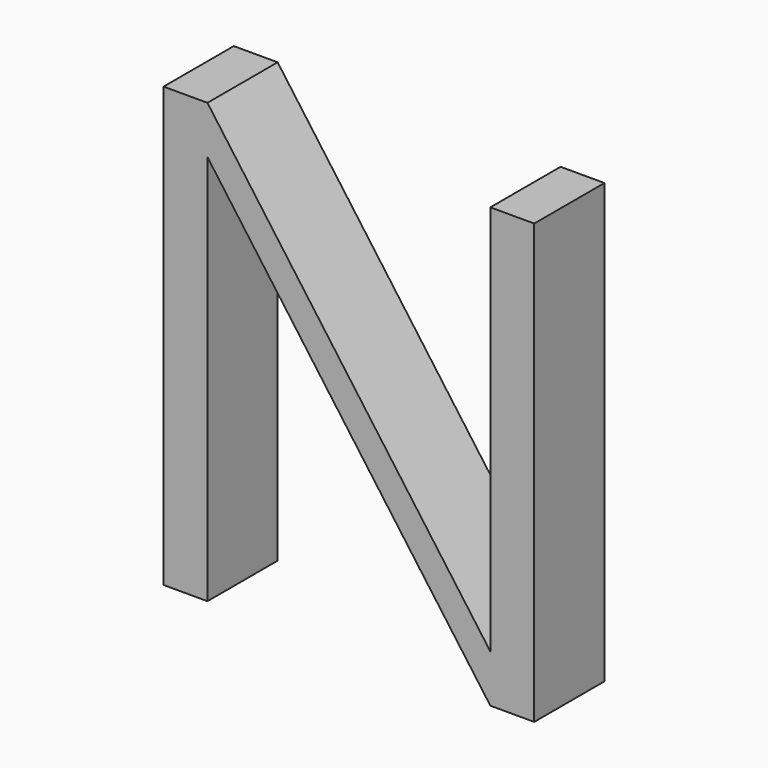
from build123d import *

# Parameters (mm, degrees)
F1_DEPTH = 12.7
F2_DEPTH = 12.7


with BuildPart() as f1:
    # F0 (on Front) → F1 (new body, symmetric)
    with BuildSketch(Plane.XZ):
        Polygon((28.504521, 70.64042), (28.504521, -42.545328), (38.498788, -56.35958), (41.204521, -56.35958), (41.204521, 70.64042), align=None)
    extrude(amount=F1_DEPTH, both=True)

    # F0 (on Front) → F2 (join, symmetric)
    with BuildSketch(Plane.XZ):
        Polygon((-53.38255, 70.64042), (-66.08255, 70.64042), (-66.08255, -56.35958), (-53.38255, -56.35958), (-53.38255, -0.88598), (-53.38255, 56.82433), (28.504521, -56.35958), (38.498788, -56.35958), (28.504521, -42.545328), align=None)
    extrude(amount=F2_DEPTH, both=True)


solid = f1.part
